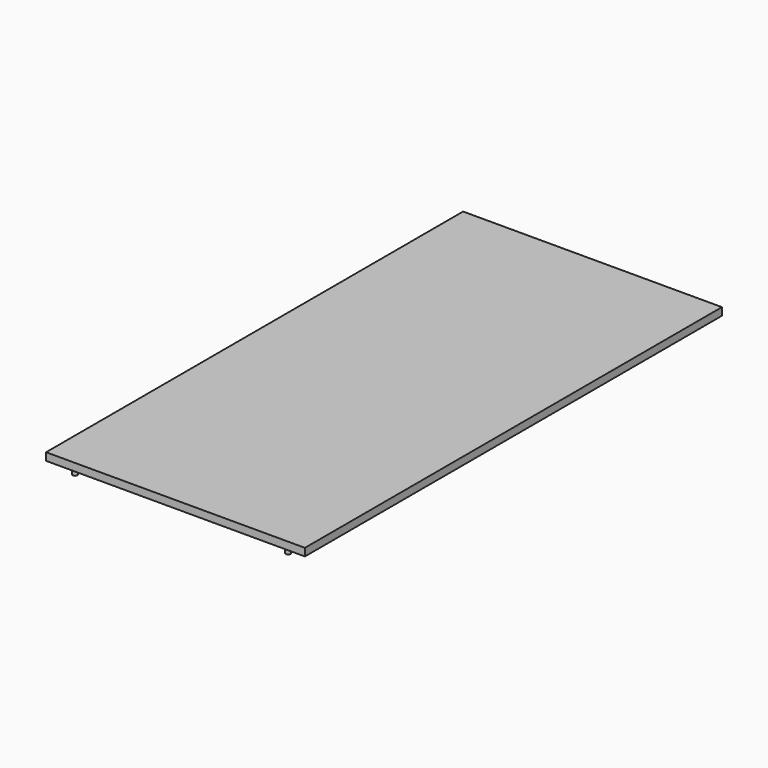
from build123d import *

# Parameters (mm, degrees)
F0_W     = 170
F0_H     = 342.370798
F1_DEPTH = 5
F2_R     = 1.5
F3_DEPTH = 5


with BuildPart() as f1:
    # F0 (on Top) → F1 (new body)
    with BuildSketch(Plane.XY):
        Rectangle(F0_W, F0_H)
    extrude(amount=F1_DEPTH)

    # F2 (on Top) → F3 (join)
    with BuildSketch(Plane.XY):
        with Locations((70, -166.185399)):
            Circle(F2_R)
        with Locations((-70, -166.185399)):
            Circle(F2_R)
        with Locations((70, 166.185399)):
            Circle(F2_R)
        with Locations((-70, 166.185399)):
            Circle(F2_R)
    extrude(amount=-F3_DEPTH)


solid = f1.part
